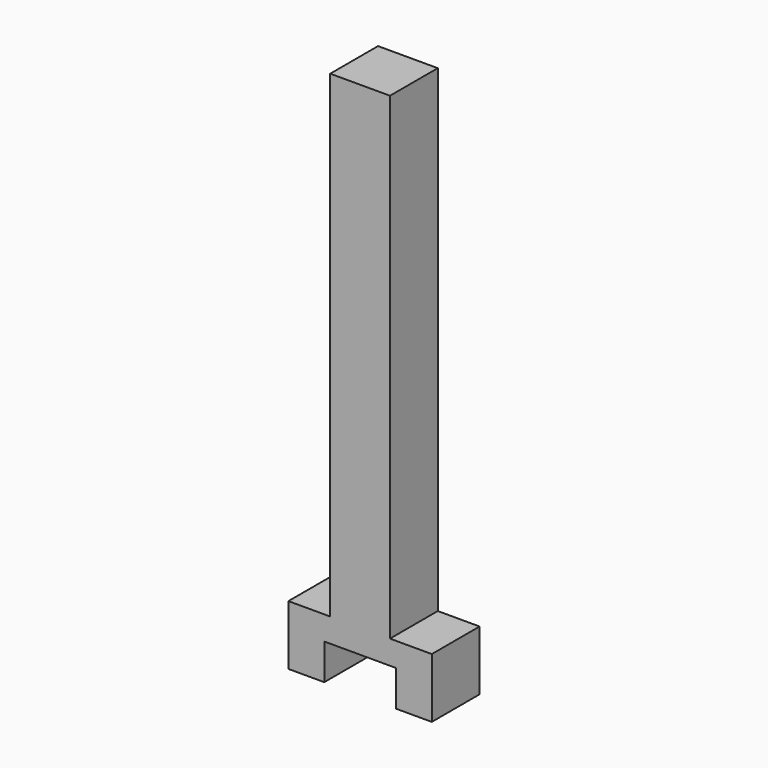
from build123d import *

# Parameters (mm, degrees)
F1_DEPTH = 6.35
F2_W     = 6.35
F2_H     = 6.35
F3_DEPTH = 50.8


with BuildPart() as f1:
    # F0 (on Front) → F1 (new body)
    with BuildSketch(Plane.XZ):
        Polygon((0, 6.35), (0, 0), (3.81, 0), (3.81, 3.81), (11.43, 3.81), (11.43, 0), (15.24, 0), (15.24, 6.35), align=None)
    extrude(amount=F1_DEPTH)

    # F2 (on face) → F3 (join)
    with BuildSketch(Plane.XY.offset(6.35)):
        with Locations((7.62, -3.175)):
            Rectangle(F2_W, F2_H)
    extrude(amount=F3_DEPTH)


solid = f1.part
